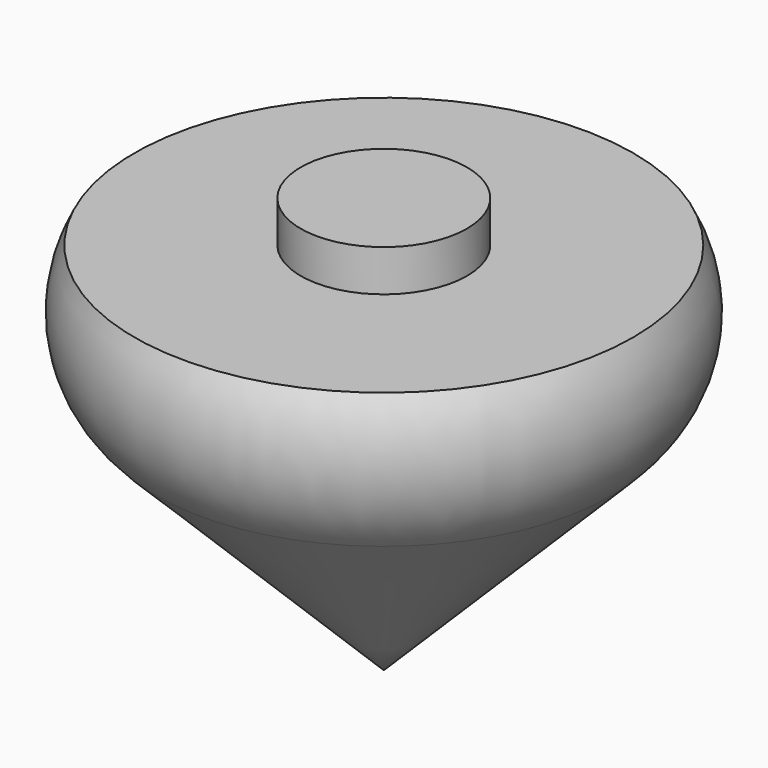
from build123d import *


with BuildPart() as f1:
    # F0 (on Front) → F1 (revolve)
    with BuildSketch(Plane.XZ):
        with BuildLine():
            Line((20, 100), (0, 100))
            Line((0, 100), (0, 0))
            Line((0, 0), (54.717098, 54.717098))
            ThreePointArc((54.717098, 54.717098), (63.17316, 71.487929), (60, 90))
            Line((60, 90), (20, 90))
            Line((20, 90), (20, 100))
        make_face()
    revolve(axis=Axis((0, 0, 50), (0, 0, -1)))


solid = f1.part
